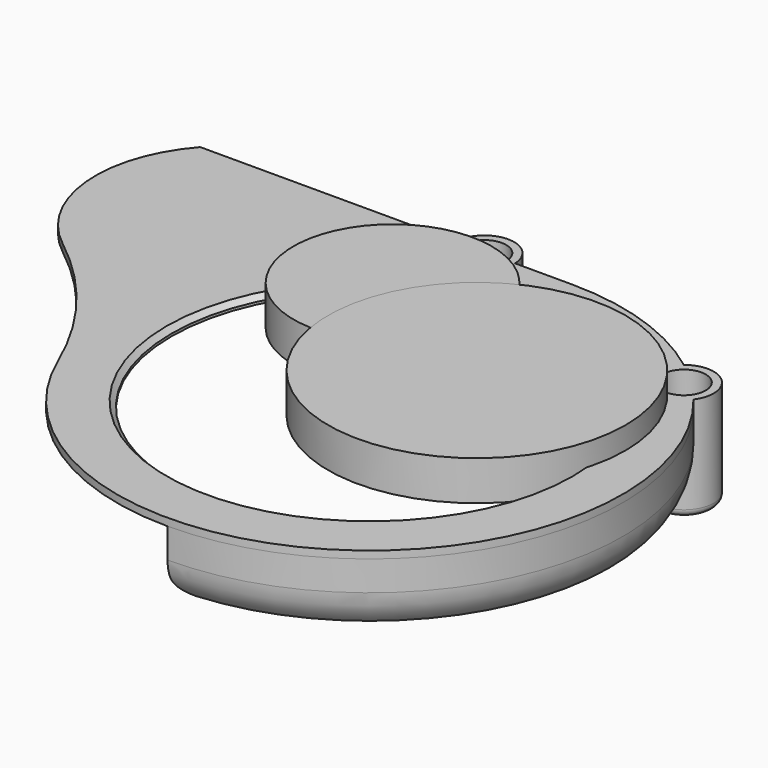
from build123d import *

# Parameters (mm, degrees)
CYLINDER002_R     = 20
CYLINDER002_DEPTH = 8
CYLINDER003_R     = 30
CYLINDER003_DEPTH = 8
CYLINDER004_R     = 48
CYLINDER004_DEPTH = 8
CYLINDER_R        = 46
CYLINDER_DEPTH    = 8
REVOLUTION_ANGLE  = -180
SKETCH_R          = 40
PAD_DEPTH         = 1.5
PAD001_DEPTH      = 75
SKETCH005_R       = 6
PAD002_DEPTH      = 21
SKETCH012_R       = 2.6
POCKET_DEPTH      = 21.001
SKETCH013_R       = 4.4
POCKET001_DEPTH   = 5
SKETCH008_W       = 35.7258
SKETCH008_H       = 35.7258
POCKET002_DEPTH   = 1.5
CHAMFER_SIZE      = 1
FILLET_R          = 1.5
FILLET001_R       = 4


with BuildPart() as cylinder002:
    # Cylinder002 → Cylinder002 (new body)
    with BuildSketch(Plane(origin=(-17, 27, -2), x_dir=(1, 0, 0), z_dir=(0, 0, 1))):
        Circle(CYLINDER002_R)
    extrude(amount=CYLINDER002_DEPTH)


with BuildPart() as cylinder003:
    # Cylinder003 → Cylinder003 (new body)
    with BuildSketch(Plane(origin=(12, 12, -2), x_dir=(1, 0, 0), z_dir=(0, 0, 1))):
        Circle(CYLINDER003_R)
    extrude(amount=CYLINDER003_DEPTH)


with BuildPart() as cylinder004:
    # Cylinder004 → Cylinder004 (new body)
    with BuildSketch(Plane(origin=(-17, -1.8, -9), x_dir=(1, 0, 0), z_dir=(0, 0, 1))):
        Circle(CYLINDER004_R)
    extrude(amount=CYLINDER004_DEPTH)


with BuildPart() as cylinder:
    # Cylinder → Cylinder (new body)
    with BuildSketch(Plane.XY.offset(-9)):
        Circle(CYLINDER_R)
    extrude(amount=CYLINDER_DEPTH)


with BuildPart() as revolution:
    # Sketch004 → Revolution (revolve)
    with BuildSketch(Plane.YZ):
        with BuildLine():
            Line((48.363961, -12.363961), (45.889087, -9.889088))
            ThreePointArc((45.889087, -9.889088), (47.081337, -8.104759), (47.5, -6))
            Line((47.5, -6), (47.5, 0))
            Line((47.5, 0), (51, 0))
            Line((51, -6), (51, 0))
            ThreePointArc((48.363961, -12.363961), (50.314916, -9.444151), (51, -6))
        make_face()
    revolve(axis=Axis((0, 0, 0), (0, 0, 1)), revolution_arc=REVOLUTION_ANGLE)


with BuildPart() as pad:
    # Sketch → Pad (new body)
    with BuildSketch(Plane.XY):
        with BuildLine():
            ThreePointArc((-46.914816, -20), (42.549971, -28.115832), (0, 51))
            Line((-75, 51), (0, 51))
            ThreePointArc((-75, 51), (-81.690324, 30.60121), (-71.383422, 11.769352))
            ThreePointArc((-46.914816, -20), (-57.126294, -2.557354), (-71.383422, 11.769352))
        make_face()
        Circle(SKETCH_R, mode=Mode.SUBTRACT)
    extrude(amount=PAD_DEPTH)


with BuildPart() as fillet001:
    # Sketch009 → Pad001 (new body)
    with BuildSketch(Plane.YZ):
        with BuildLine():
            Line((48.363961, -12.363961), (45.889087, -9.889088))
            ThreePointArc((45.889087, -9.889088), (47.081337, -8.104759), (47.5, -6))
            Line((47.5, -6), (47.5, 0))
            Line((47.5, 0), (51, 0))
            Line((51, -6), (51, 0))
            ThreePointArc((48.363961, -12.363961), (50.314916, -9.444151), (51, -6))
        make_face()
    extrude(amount=-PAD001_DEPTH)

    # Fusion: union Revolution, Pad
    add(revolution.part)
    add(pad.part)

    # Sketch005 → Pad002 (new body)
    with BuildSketch(Plane.XY.offset(1.5)):
        with Locations((-17.477472, 50.758264)):
            Circle(SKETCH005_R)
        with Locations((34.663114, 35.894705)):
            Circle(SKETCH005_R)
    extrude(amount=-PAD002_DEPTH)

    # Sketch012 → Pocket (cut, through all)
    with BuildSketch(Plane.XY.offset(1.5)):
        with Locations((-17.477472, 50.758264)):
            Circle(SKETCH012_R)
        with Locations((34.663114, 35.894705)):
            Circle(SKETCH012_R)
    extrude(amount=-POCKET_DEPTH, mode=Mode.SUBTRACT)

    # Sketch013 → Pocket001 (cut)
    with BuildSketch(Plane.XY.offset(1.5)):
        with Locations((-17.477472, 50.758264)):
            Circle(SKETCH013_R)
        with Locations((34.663114, 35.894705)):
            Circle(SKETCH013_R)
    extrude(amount=-POCKET001_DEPTH, mode=Mode.SUBTRACT)

    # Sketch008 → Pocket002 (cut)
    with BuildSketch(Plane(origin=(0, 0, -19.5), x_dir=(1, 0, 0), z_dir=(0, 0, -1))):
        with Locations((-17.8629, -50.7062)):
            Rectangle(SKETCH008_W, SKETCH008_H)
    extrude(amount=-POCKET002_DEPTH, mode=Mode.SUBTRACT)

    # Cut: cut Cylinder
    add(cylinder.part, mode=Mode.SUBTRACT)

    # Cut001: cut Cylinder004
    add(cylinder004.part, mode=Mode.SUBTRACT)

    # Chamfer
    chamfer_edges = [fillet001.edges().sort_by_distance(p)[0] for p in [
        (-40, 0, 1.5),
    ]]
    chamfer(chamfer_edges, length=CHAMFER_SIZE)

    # Fillet
    fillet_edges = [fillet001.edges().sort_by_distance(p)[0] for p in [
        (28.663114, 35.894705, -19.5),
        (-23.477472, 50.758264, -18),
    ]]
    fillet(fillet_edges, radius=FILLET_R)

    # Fillet001
    fillet001_edges = [fillet001.edges().sort_by_distance(p)[0] for p in [
        (0, -47.126524, -11.126524),
        (-75, 47.126524, -11.126524),
    ]]
    fillet(fillet001_edges, radius=FILLET001_R)


solid = Compound([cylinder002.part, cylinder003.part, fillet001.part])
